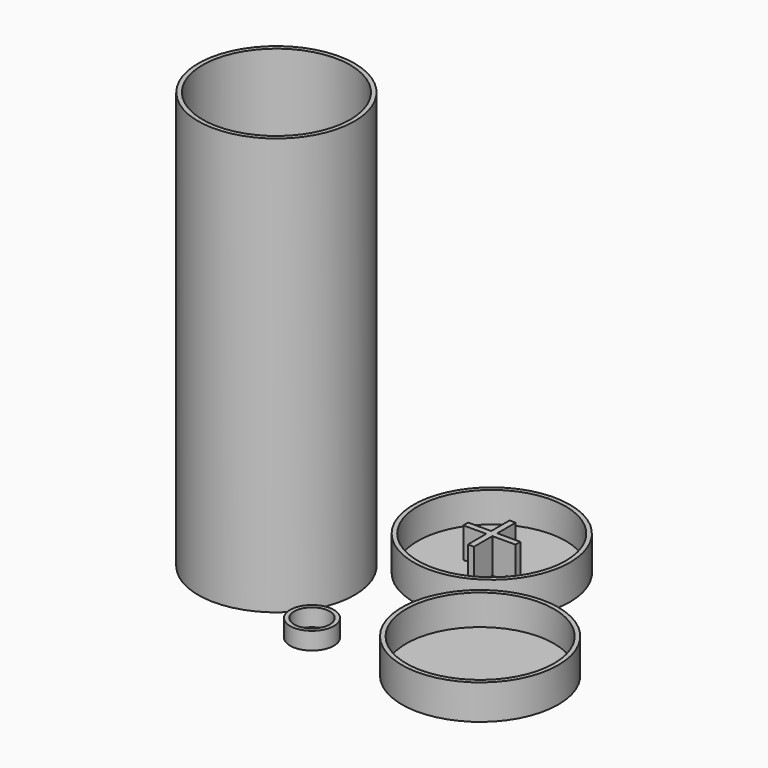
from build123d import *

# Parameters (mm, degrees)
F0_R     = 53.975
F1_DEPTH = 3.175
F0_R_2   = 57.15
F2_DEPTH = 25.4
F0_W     = 4.445
F0_H     = 4.445
F3_DEPTH = 304.8
F4_R     = 16
F4_R_2   = 13
F5_DEPTH = 12.7


with BuildPart() as f1:
    # F0 (on Top) → F1 (new body)
    with BuildSketch(Plane.XY):
        with Locations((-74.0348821748, 103.1883531284)):
            Circle(F0_R)
        with BuildLine():
            ThreePointArc((-71.8123821748, 115.9969632697), (-64.8424940194, 112.3807412839), (-61.2262720336, 105.4108531284))
            Line((-61.2262720336, 105.4108531284), (-54.9848821748, 105.4108531284))
            Line((-54.9848821748, 105.4108531284), (-54.9848821748, 100.9658531284))
            Line((-54.9848821748, 100.9658531284), (-61.2262720336, 100.9658531284))
            ThreePointArc((-61.2262720336, 100.9658531284), (-64.8424940194, 93.995964973), (-71.8123821748, 90.3797429872))
            Line((-71.8123821748, 90.3797429872), (-71.8123821748, 84.1383531284))
            Line((-71.8123821748, 84.1383531284), (-76.2573821748, 84.1383531284))
            Line((-76.2573821748, 84.1383531284), (-76.2573821748, 90.3797429872))
            ThreePointArc((-76.2573821748, 90.3797429872), (-83.2272703302, 93.995964973), (-86.843492316, 100.9658531284))
            Line((-86.843492316, 100.9658531284), (-93.0848821748, 100.9658531284))
            Line((-93.0848821748, 100.9658531284), (-93.0848821748, 105.4108531284))
            Line((-93.0848821748, 105.4108531284), (-86.843492316, 105.4108531284))
            ThreePointArc((-86.843492316, 105.4108531284), (-83.2272703302, 112.3807412839), (-76.2573821748, 115.9969632697))
            Line((-76.2573821748, 115.9969632697), (-76.2573821748, 122.2383531284))
            Line((-76.2573821748, 122.2383531284), (-71.8123821748, 122.2383531284))
            Line((-71.8123821748, 122.2383531284), (-71.8123821748, 115.9969632697))
        make_face(mode=Mode.SUBTRACT)
    extrude(amount=F1_DEPTH)

    # F0 (on Top) → F2, piece 2 (join)
    with BuildSketch(Plane.XY):
        with Locations((-74.0348821748, 103.1883531284)):
            Circle(F0_R_2)
        with Locations((-74.0348821748, 103.1883531284)):
            Circle(F0_R, mode=Mode.SUBTRACT)
        with BuildLine():
            ThreePointArc((-76.2573821748, 90.3797429872), (-74.0348821748, 90.1883531284), (-71.8123821748, 90.3797429872))
            Line((-71.8123821748, 90.3797429872), (-71.8123821748, 100.9658531284))
            Line((-71.8123821748, 100.9658531284), (-76.2573821748, 100.9658531284))
            Line((-76.2573821748, 100.9658531284), (-76.2573821748, 90.3797429872))
        make_face()
        with BuildLine():
            Line((-71.8123821748, 105.4108531284), (-71.8123821748, 115.9969632697))
            ThreePointArc((-71.8123821748, 115.9969632697), (-74.0348821748, 116.1883531284), (-76.2573821748, 115.9969632697))
            Line((-76.2573821748, 115.9969632697), (-76.2573821748, 105.4108531284))
            Line((-76.2573821748, 105.4108531284), (-71.8123821748, 105.4108531284))
        make_face()
        with BuildLine():
            ThreePointArc((-61.2262720336, 100.9658531284), (-61.0828180182, 102.0729903704), (-61.0348821748, 103.1883531284))
            ThreePointArc((-61.0348821748, 103.1883531284), (-61.0828180182, 104.3037158865), (-61.2262720336, 105.4108531284))
            Line((-61.2262720336, 105.4108531284), (-71.8123821748, 105.4108531284))
            Line((-71.8123821748, 105.4108531284), (-71.8123821748, 100.9658531284))
            Line((-71.8123821748, 100.9658531284), (-61.2262720336, 100.9658531284))
        make_face()
        with BuildLine():
            Line((-76.2573821748, 100.9658531284), (-76.2573821748, 105.4108531284))
            Line((-76.2573821748, 105.4108531284), (-86.843492316, 105.4108531284))
            ThreePointArc((-86.843492316, 105.4108531284), (-87.0348821748, 103.1883531284), (-86.843492316, 100.9658531284))
            Line((-86.843492316, 100.9658531284), (-76.2573821748, 100.9658531284))
        make_face()
        with BuildLine():
            Line((-71.8123821748, 84.1383531284), (-71.8123821748, 90.3797429872))
            ThreePointArc((-71.8123821748, 90.3797429872), (-74.0348821748, 90.1883531284), (-76.2573821748, 90.3797429872))
            Line((-76.2573821748, 90.3797429872), (-76.2573821748, 84.1383531284))
            Line((-76.2573821748, 84.1383531284), (-71.8123821748, 84.1383531284))
        make_face()
        with BuildLine():
            ThreePointArc((-76.2573821748, 115.9969632697), (-74.0348821748, 116.1883531284), (-71.8123821748, 115.9969632697))
            Line((-71.8123821748, 115.9969632697), (-71.8123821748, 122.2383531284))
            Line((-71.8123821748, 122.2383531284), (-76.2573821748, 122.2383531284))
            Line((-76.2573821748, 122.2383531284), (-76.2573821748, 115.9969632697))
        make_face()
        with BuildLine():
            ThreePointArc((-61.2262720336, 105.4108531284), (-61.0828180182, 104.3037158865), (-61.0348821748, 103.1883531284))
            ThreePointArc((-61.0348821748, 103.1883531284), (-61.0828180182, 102.0729903704), (-61.2262720336, 100.9658531284))
            Line((-61.2262720336, 100.9658531284), (-54.9848821748, 100.9658531284))
            Line((-54.9848821748, 100.9658531284), (-54.9848821748, 105.4108531284))
            Line((-54.9848821748, 105.4108531284), (-61.2262720336, 105.4108531284))
        make_face()
        with BuildLine():
            ThreePointArc((-86.843492316, 100.9658531284), (-87.0348821748, 103.1883531284), (-86.843492316, 105.4108531284))
            Line((-86.843492316, 105.4108531284), (-93.0848821748, 105.4108531284))
            Line((-93.0848821748, 105.4108531284), (-93.0848821748, 100.9658531284))
            Line((-93.0848821748, 100.9658531284), (-86.843492316, 100.9658531284))
        make_face()
        with Locations((-74.0348821748, 103.1883531284)):
            Rectangle(F0_W, F0_H)
    extrude(amount=F2_DEPTH)


with BuildPart() as f1b:
    # F0 (on Top) → F1, piece 2 (new body)
    with BuildSketch(Plane.XY):
        Circle(F0_R)
    extrude(amount=F1_DEPTH)

    # F0 (on Top) → F2 (join)
    with BuildSketch(Plane.XY):
        Circle(F0_R_2)
        Circle(F0_R, mode=Mode.SUBTRACT)
    extrude(amount=F2_DEPTH)


with BuildPart() as f3:
    # F0 (on Top) → F3 (new body)
    with BuildSketch(Plane.XY):
        with Locations((-175.3259235067, 33.0760006827)):
            Circle(F0_R_2)
        with Locations((-175.3259235067, 33.0760006827)):
            Circle(F0_R, mode=Mode.SUBTRACT)
    extrude(amount=F3_DEPTH)


with BuildPart() as f5:
    # F4 (on Top) → F5 (new body)
    with BuildSketch(Plane.XY):
        with Locations((-104.2583733797, -23.2318546623)):
            Circle(F4_R)
        with Locations((-104.2583733797, -23.2318546623)):
            Circle(F4_R_2, mode=Mode.SUBTRACT)
    extrude(amount=F5_DEPTH)


solid = Compound([f1.part, f1b.part, f3.part, f5.part])
